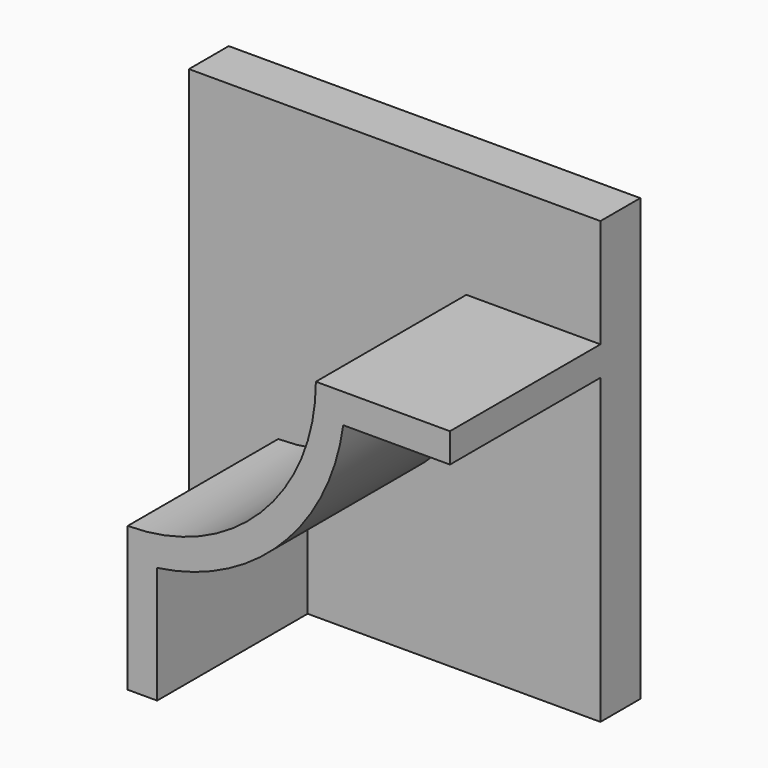
from build123d import *

# Parameters (mm, degrees)
F0_W     = 210
F0_H     = 225
F1_DEPTH = 25.4
F4_DEPTH = 96


with BuildPart() as f1:
    # F0 (on Front) → F1 (new body)
    with BuildSketch(Plane.XZ):
        with Locations((-25.301798, 8.873123)):
            Rectangle(F0_W, F0_H)
    extrude(amount=F1_DEPTH)


with BuildPart() as f1_1:
    # F2: moved
    add(f1.part.moved(Location((25.4, 0, -8.763))))

    # F3 (on face) → F4 (join)
    with BuildSketch(Plane.XZ.offset(25.4)):
        with BuildLine():
            Line((-59.321807, -38.761023), (-59.321807, -112.389877))
            Line((-59.321807, -112.389877), (-44.321807, -112.389877))
            Line((-44.321807, -112.389877), (-44.321807, -52.74284))
            ThreePointArc((-44.321807, -52.74284), (19.167046, -21.249876), (50.66001, 42.238977))
            Line((50.66001, 42.238977), (105.098202, 42.238977))
            Line((105.098202, 42.238977), (105.098202, 57.238977))
            Line((105.098202, 57.238977), (36.678193, 57.238977))
            ThreePointArc((36.678193, 57.238977), (8.560444, -10.643274), (-59.321807, -38.761023))
        make_face()
    extrude(amount=F4_DEPTH)


solid = f1_1.part
